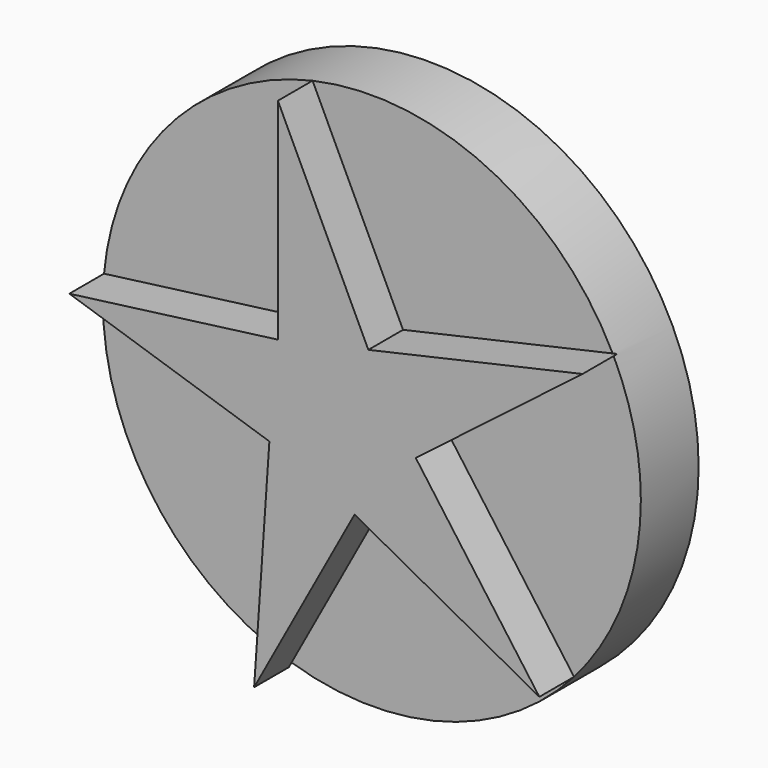
from build123d import *

# Parameters (mm, degrees)
F0_R     = 23.6348568864
F1_DEPTH = 6.35
F3_DEPTH = 3.81


with BuildPart() as f1:
    # F0 (on Front) → F1 (new body)
    with BuildSketch(Plane.XZ):
        Circle(F0_R)
    extrude(amount=F1_DEPTH)

    # F2 (on face) → F3 (join)
    with BuildSketch(Plane.XZ.offset(6.35)):
        Polygon((17.7656764274, -15.5880467384), (6.9023813455, -0.6360037909), (1.5280775877, -6.7610907365), align=None)
        Polygon((1.5280775877, -6.7610907365), (6.9023813455, -0.6360037909), (2.7378286872, 6.3680187768), (-5.2103101615, 4.5716558359), (-5.9579774589, -3.5425800853), align=None)
        Polygon((2.7378286872, 6.3680187768), (6.9023813455, -0.6360037909), (21.559595306, 10.6219359112), align=None)
        Polygon((-7.2988784141, -22.9986895762), (1.5280775877, -6.7610907365), (-5.9579774589, -3.5425800853), align=None)
        Polygon((-5.2103101615, 4.5716558359), (2.7378286872, 6.3680187768), (-5.2103101615, 23.0533973215), align=None)
        Polygon((-23.5351621744, 2.1685482389), (-5.9579774589, -3.5425800853), (-5.2103101615, 4.5716558359), align=None)
    extrude(amount=F3_DEPTH)


solid = f1.part
